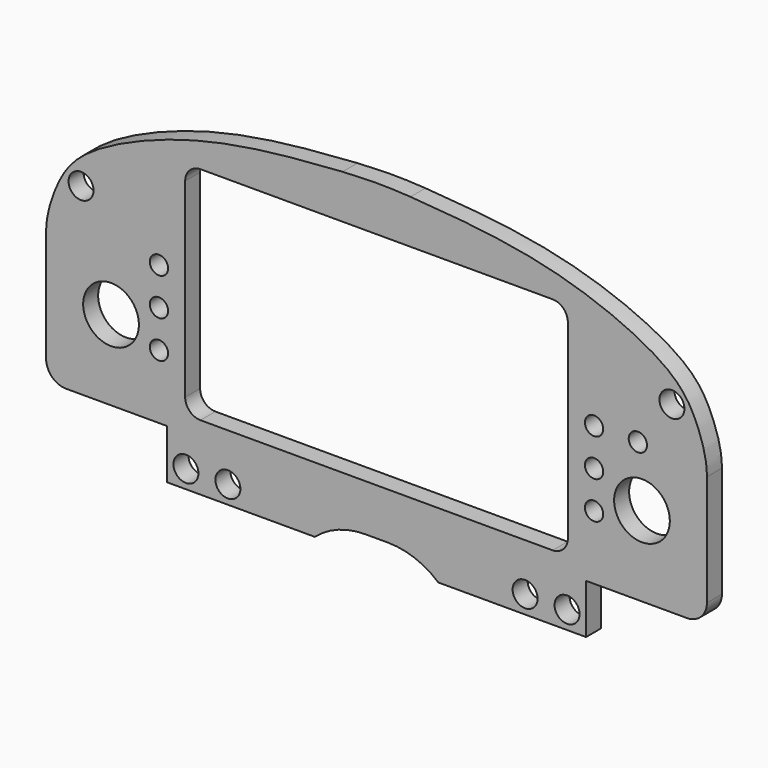
from build123d import *

# Parameters (mm, degrees)
F0_R     = 6.35
F1_DEPTH = 9.525
F2_R     = 10.16
F4_DEPTH = 25.4
F5_R     = 254
F6_R     = 4.6482
F6_R_2   = 14.1605
F7_DEPTH = 25.4


with BuildPart() as f1:
    # F0 (on Front) → F1 (new body)
    with BuildSketch(Plane.XZ):
        with BuildLine():
            Line((-106.5174639225, -64.77), (-31.4290560782, -64.77))
            ThreePointArc((-31.4290560782, -64.77), (-19.4864111897, -57.7068407051), (-5.8307349682, -55.249709636))
            Line((-5.8307349682, -55.249709636), (0, -55.249709636))
            Line((0, -55.249709636), (5.8307349682, -55.249709636))
            ThreePointArc((5.8307349682, -55.249709636), (19.4864111897, -57.7068407051), (31.4290560782, -64.77))
            Line((31.4290560782, -64.77), (106.5174639225, -64.77))
            Line((106.5174639225, -64.77), (106.5174639225, -39.5983140361))
            Line((106.5174639225, -39.5983140361), (167.9534316063, -39.5983140361))
            Line((167.9534316063, -39.5983140361), (167.9534316063, 26.9573238301))
            add(Edge.make_bspline(
                [(0, 104.3131649494), (20.410301584, 103.0330934585), (59.6583638346, 100.5752160198), (107.8367322286, 90.1029474639), (151.6277590611, 69.5902698618), (163.4617376042, 49.6125522636), (167.9534316063, 34.663336698), (167.9534316063, 26.9573238301)],
                knots=[0, 0, 0, 0, 0.2488471703, 0.4782216393, 0.6964249219, 0.8474229551, 1, 1, 1, 1], degree=3))
            add(Edge.make_bspline(
                [(0, 104.3131649494), (-20.410301584, 103.0330934585), (-59.6583638346, 100.5752160198), (-107.8367322286, 90.1029474639), (-151.6277590611, 69.5902698618), (-163.4617376042, 49.6125522636), (-167.9534316063, 34.663336698), (-167.9534316063, 26.9573238301)],
                knots=[0, 0, 0, 0, 0.2488471703, 0.4782216393, 0.6964249219, 0.8474229551, 1, 1, 1, 1], degree=3))
            Line((-167.9534316063, 26.9573238301), (-167.9534316063, -39.5983140361))
            Line((-167.9534316063, -39.5983140361), (-106.5174639225, -39.5983140361))
            Line((-106.5174639225, -39.5983140361), (-106.5174639225, -64.77))
        make_face()
        with Locations((-96.8654639225, -55.626)):
            Circle(F0_R, mode=Mode.SUBTRACT)
        with Locations((-75.5294639225, -55.626)):
            Circle(F0_R, mode=Mode.SUBTRACT)
        with Locations((75.5294639225, -55.626)):
            Circle(F0_R, mode=Mode.SUBTRACT)
        with Locations((96.8654639225, -55.626)):
            Circle(F0_R, mode=Mode.SUBTRACT)
        with Locations((-150.1734316063, 53.6196859639)):
            Circle(F0_R, mode=Mode.SUBTRACT)
        with Locations((150.1734316063, 53.6196859639)):
            Circle(F0_R, mode=Mode.SUBTRACT)
    extrude(amount=F1_DEPTH)

    # F2
    f2_edges = [f1.edges().sort_by_distance(p)[0] for p in [
        (167.953432, -4.7625, -39.598314),
        (-167.953432, -4.7625, -39.598314),
    ]]
    fillet(f2_edges, radius=F2_R)

    # F3 (on face) → F4 (cut)
    with BuildSketch(Plane.XZ.offset(9.525)):
        with BuildLine():
            ThreePointArc((-97.2566, -23.6979140361), (-94.9801167461, -29.1938307822), (-89.4842, -31.4703140361))
            Line((-89.4842, -31.4703140361), (89.4842, -31.4703140361))
            ThreePointArc((89.4842, -31.4703140361), (94.9801167461, -29.1938307822), (97.2566, -23.6979140361))
            Line((97.2566, -23.6979140361), (97.2566, 73.0760859639))
            ThreePointArc((97.2566, 73.0760859639), (94.9801167461, 78.57200271), (89.4842, 80.8484859639))
            Line((89.4842, 80.8484859639), (-89.4842, 80.8484859639))
            ThreePointArc((-89.4842, 80.8484859639), (-94.9801167461, 78.57200271), (-97.2566, 73.0760859639))
            Line((-97.2566, 73.0760859639), (-97.2566, -23.6979140361))
        make_face()
    extrude(amount=-F4_DEPTH, mode=Mode.SUBTRACT)

    # F5
    f5_edges = [f1.edges().sort_by_distance(p)[0] for p in [
        (0, -4.7625, 104.313165),
    ]]
    fillet(f5_edges, radius=F5_R)

    # F6 (on face) → F7 (cut)
    with BuildSketch(Plane.XZ.offset(9.525)):
        with Locations((-110.5845943093, 12.0374655791)):
            Circle(F6_R)
        with Locations((-110.5845943093, 31.0874655791)):
            Circle(F6_R)
        with Locations((-110.5845943093, -7.0125344209)):
            Circle(F6_R)
        with Locations((-134.9334316063, 1.0416859639)):
            Circle(F6_R_2)
        with Locations((110.5845943093, 31.0874655791)):
            Circle(F6_R)
        with Locations((110.5845943093, 12.0374655791)):
            Circle(F6_R)
        with Locations((110.5845943093, -7.0125344209)):
            Circle(F6_R)
        with Locations((132.8512136193, 31.0874655791)):
            Circle(F6_R)
        with Locations((134.9334316063, 1.0416859639)):
            Circle(F6_R_2)
    extrude(amount=-F7_DEPTH, mode=Mode.SUBTRACT)


solid = f1.part
